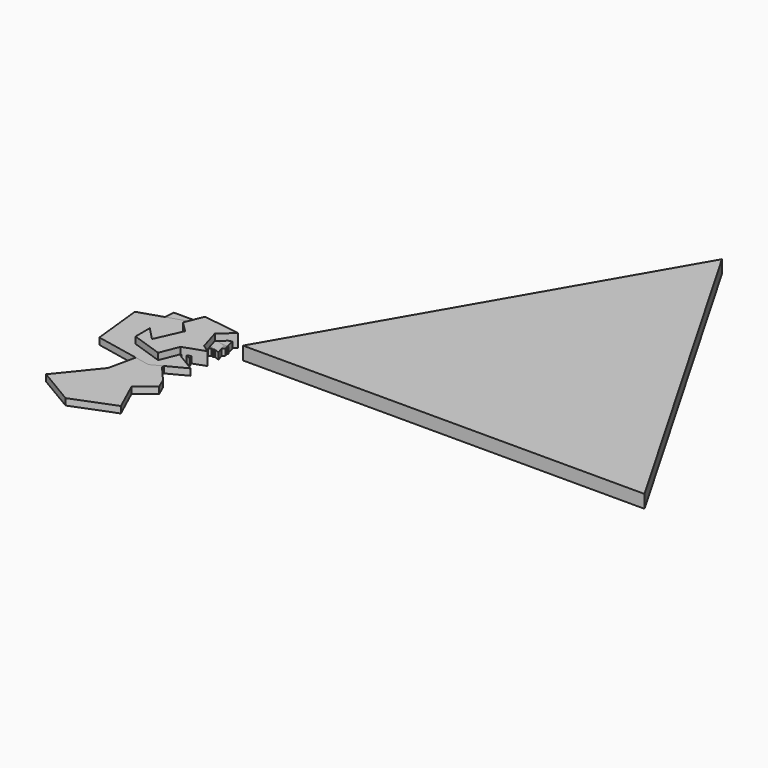
from build123d import *

# Parameters (mm, degrees)
PAD_DEPTH    = 5
PAD001_DEPTH = 5
PAD002_DEPTH = 5
PAD003_DEPTH = 5
PAD004_DEPTH = 5
PAD005_DEPTH = 10
PAD011_DEPTH = 10


with BuildPart() as body:
    # Sketch → Pad (new body)
    with BuildSketch(Plane.XY):
        Polygon((16.407789, 0), (14.20999, 9.292012), (7.459578, 7.408173), (-1.802612, 16.670362), (-17.344254, 4.268449), (-13.576584, -9.860312), (5.104784, -3.266889), (11.855196, -6.092639), align=None)
    extrude(amount=PAD_DEPTH)


with BuildPart() as body_1:
    # Body placement: moved
    add(body.part.moved(Location((-16.407789, -16.670362, 0))))


with BuildPart() as body001:
    # Sketch002 → Pad001 (new body)
    with BuildSketch(Plane.XY):
        Polygon((0, 23.425846), (7.120159, 10.498806), (22.492847, 9.450668), (8.168289, -2.078853), (14.107744, -16.752783), (0, -10.114574), (-11.04756, -18.150301), (-7.903162, 0), (-19.083288, 10.498806), (-6.505643, 10.498806), align=None)
    extrude(amount=PAD001_DEPTH)


with BuildPart() as body001_1:
    # Body001 placement: moved
    add(body001.part.moved(Location((-22.492847, -23.425846, 0))))


with BuildPart() as body002:
    # Sketch003 → Pad002 (new body)
    with BuildSketch(Plane.XY):
        Polygon((13.758363, 0), (12.01147, 9.80005), (-4.409369, 11.896324), (-28.516535, 11.896324), (-29.564672, 0), (-24.673361, -3.476364), (-26.769636, -16.752783), (-8.601904, -11.162712), (4.325122, -16.054022), (16.5534, -8.717056), (24.239746, -11.512094), (21.44471, -2.777609), align=None)
    extrude(amount=PAD002_DEPTH)


with BuildPart() as body002_1:
    # Body002 placement: moved
    add(body002.part.moved(Location((-24.239746, -11.896324, 0))))


with BuildPart() as body003:
    # Sketch004 → Pad003 (new body)
    with BuildSketch(Plane.XY):
        Polygon((9.915189, -22.692234), (22.842228, -12.56023), (19.348436, -4.524508), (8.517671, 8.05315), (7.120159, 29.365294), (6.421397, 49.279919), (2.578223, 67.447647), (-3.361225, 52.074955), (-6.505643, 30.064049), (-15.93887, -12.909612), (-39.696674, -42.257477), (-11.39694, -59.027687), (20.745955, -46.450031), align=None)
    extrude(amount=PAD003_DEPTH)


with BuildPart() as body003_1:
    # Body003 placement: moved
    add(body003.part.moved(Location((-22.842228, -67.447647, 0))))


with BuildPart() as body004:
    # Sketch005 → Pad004 (new body)
    with BuildSketch(Plane.XY):
        Polygon((13.408981, 0), (28.432302, 15.739498), (5.023878, 37.401024), (-37.251019, 23.775227), (-33.058464, -15.355267), (11.662088, -24.439129), (34.37175, -12.56023), align=None)
    extrude(amount=PAD004_DEPTH)


with BuildPart() as body004_1:
    # Body004 placement: moved
    add(body004.part.moved(Location((-34.37175, -37.401024, 0))))


with BuildPart() as body005:
    # Sketch006 → Pad005 (new body)
    with BuildSketch(Plane.XY):
        Polygon((15.854637, -11.861474), (10.963326, 4.559358), (21.44471, 13.643224), (-7.204406, 17.835772), (-12.794459, 3.860602), (-4.75875, -4.175127), (-13.842596, -24.439129), (-23.625217, -14.307127), (-23.625217, -27.932922), (0, -35.968647), (5.722634, -21.644093), (21.794092, -16.054022), align=None)
    extrude(amount=PAD005_DEPTH)


with BuildPart() as body005_1:
    # Body005 placement: moved
    add(body005.part.moved(Location((-21.794092, -17.835772, 0))))


with BuildPart() as board_body:
    # Sketch011 → Pad011 (new body)
    with BuildSketch(Plane.XY):
        Polygon((-47.205635, 137.739944), (-200.437314, -127.665109), (106.026044, -127.665109), align=None)
    extrude(amount=-PAD011_DEPTH)


with BuildPart() as board_body_1:
    # Body011 placement: moved
    add(board_body.part.moved(Location((200.437314, 127.665109, 0))))


solid = Compound([body_1.part, body001_1.part, body002_1.part, body003_1.part, body004_1.part, body005_1.part, board_body_1.part])
